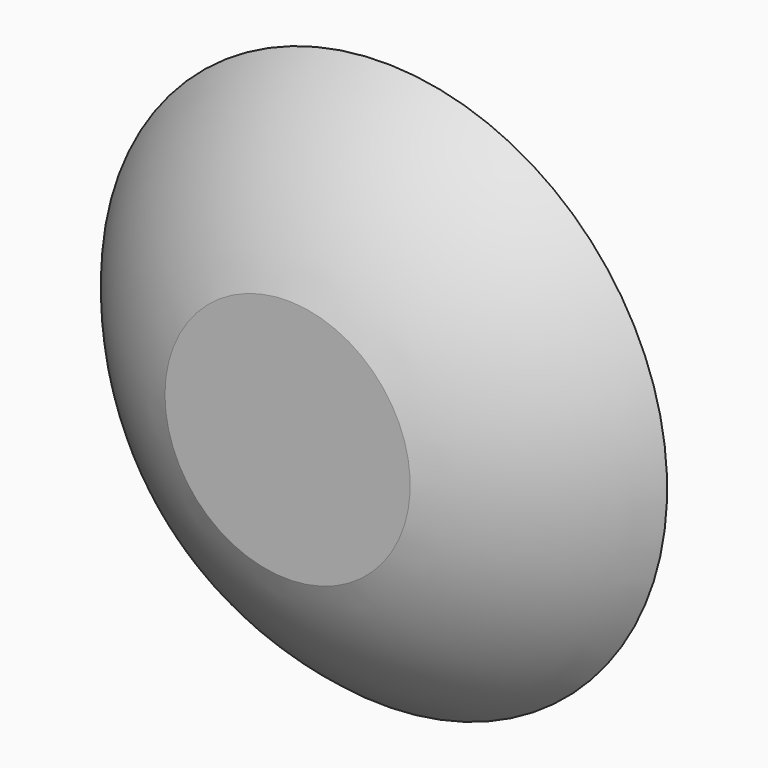
from build123d import *


with BuildPart() as f1:
    # F0 (on Top) → F1 (revolve)
    with BuildSketch(Plane.XY):
        with BuildLine():
            ThreePointArc((-7.5, 3.2), (-5.608086, 1.290433), (-3.25, 0))
            Line((-3.25, 0), (0, 0))
            Line((0, 0), (0, 0.2))
            Line((0, 0.2), (-3.25, 0.2))
            Line((-3.25, 0.2), (-3.25, 3.2))
            Line((-3.25, 3.2), (-7.5, 3.2))
        make_face()
    revolve(axis=Axis((0, 0.1, 0), (0, 1, 0)))


solid = f1.part
